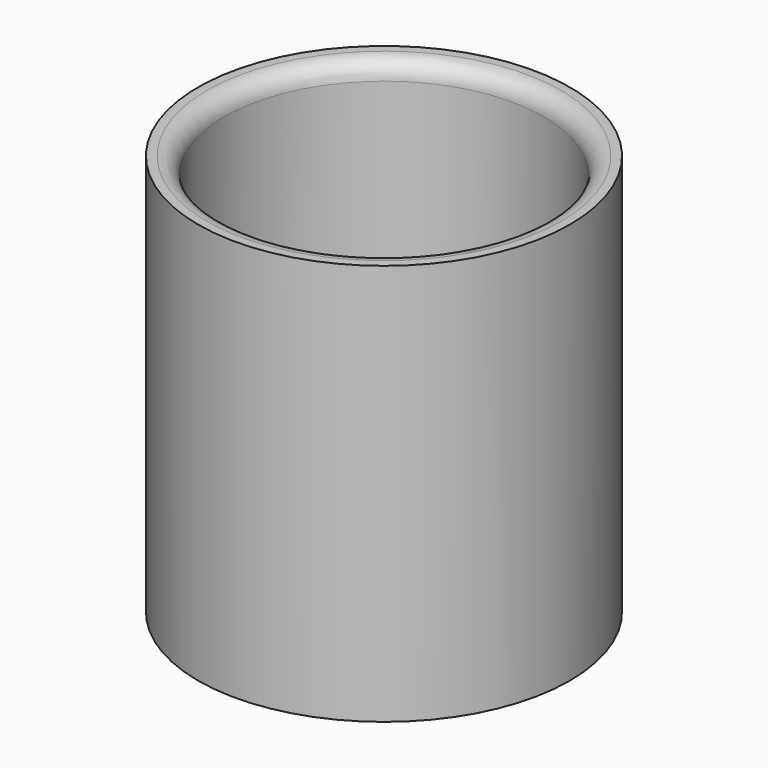
from build123d import *


with BuildPart() as f1:
    # F0 (on Front) → F1 (revolve)
    with BuildSketch(Plane.XZ):
        with BuildLine():
            Line((0, 1.062), (0, 0))
            Line((0, 0), (36, 0))
            ThreePointArc((36, 0), (37.767767, 0.732233), (38.5, 2.5))
            Line((38.5, 2.5), (38.5, 87))
            ThreePointArc((38.5, 87), (39.37868, 89.12132), (41.5, 90))
            Line((41.5, 90), (42.5, 90))
            Line((42.5, 90), (42.5, -3))
            Line((42.5, -3), (43.562, -3))
            Line((43.562, -3), (43.562, 91.062))
            Line((43.562, 91.062), (42.5, 91.062))
            Line((42.5, 91.062), (41.5, 91.062))
            ThreePointArc((41.5, 91.062), (38.627732, 89.872268), (37.438, 87))
            Line((37.438, 87), (37.438, 2.5))
            ThreePointArc((37.438, 2.5), (37.01682, 1.48318), (36, 1.062))
            Line((36, 1.062), (0, 1.062))
        make_face()
    revolve(axis=Axis((0, 0, 0.531), (0, 0, 1)))


solid = f1.part
